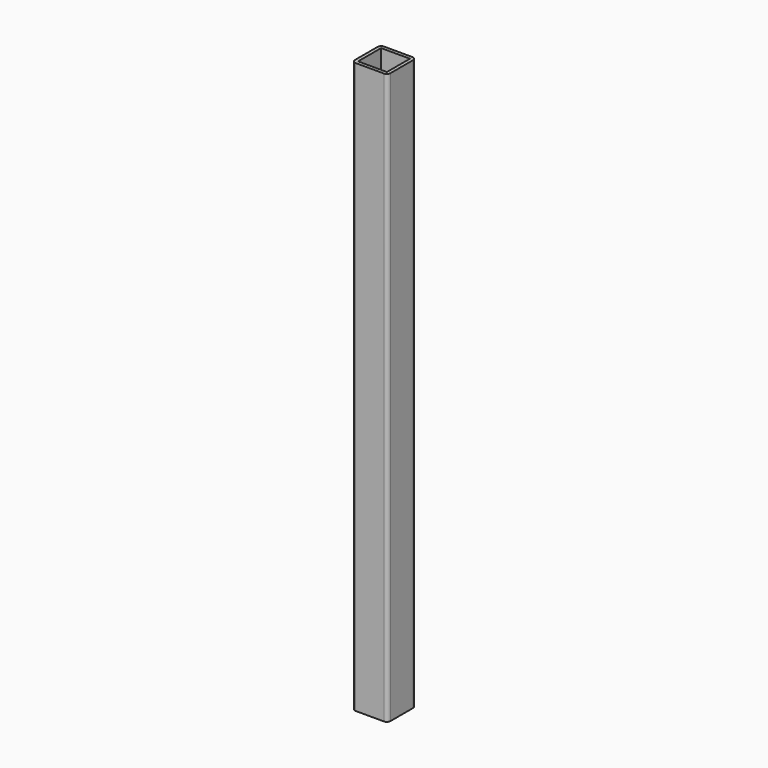
from build123d import *

# Parameters (mm, degrees)
F0_W     = 31.75
F0_H     = 31.75
F1_DEPTH = 508
F2_R     = 3.175
F3_T     = -3.048


with BuildPart() as f1:
    # F0 (on Top) → F1 (new body)
    with BuildSketch(Plane.XY):
        Rectangle(F0_W, F0_H)
    extrude(amount=-F1_DEPTH)

    # F2
    f2_edges = [f1.edges().sort_by_distance(p)[0] for p in [
        (-15.875, 15.875, -254),
        (-15.875, -15.875, -254),
        (15.875, 15.875, -254),
        (15.875, -15.875, -254),
    ]]
    fillet(f2_edges, radius=F2_R)

    # F3
    f3_openings = [f1.faces().sort_by_distance(p)[0] for p in [
        (0, 0, 0),
        (0, 0, -508),
    ]]
    offset(amount=F3_T, openings=f3_openings)


solid = f1.part
